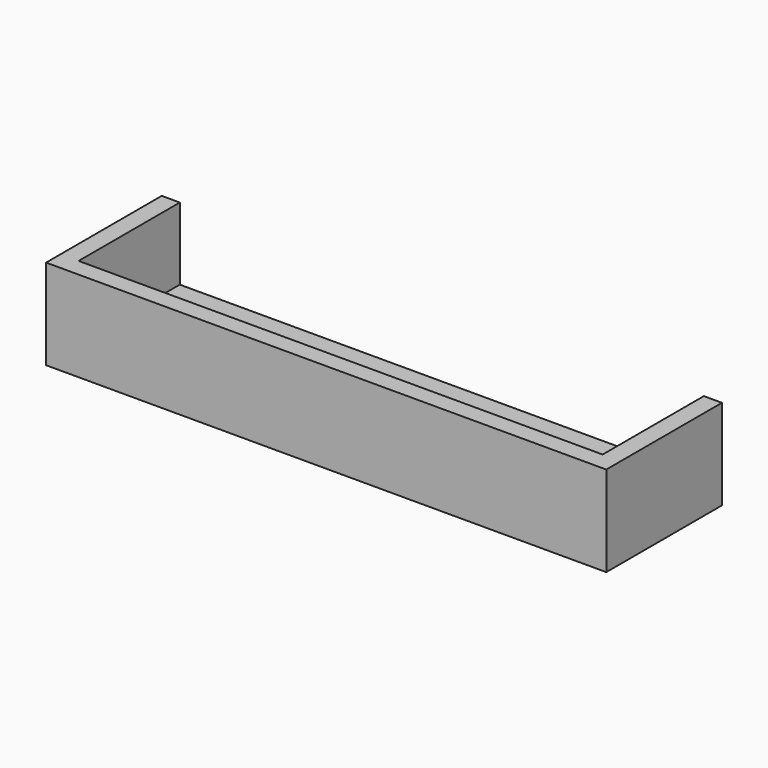
from build123d import *

# Parameters (mm, degrees)
F1_DEPTH = 400
F2_W     = 3100
F2_H     = 800
F3_DEPTH = 100


with BuildPart() as f1:
    # F0 (on Top) → F1 (new body)
    with BuildSketch(Plane.XY):
        Polygon((100, 0), (0, 0), (0, -800), (3100, -800), (3100, 0), (3000, 0), (3000, -700), (100, -700), align=None)
    extrude(amount=-F1_DEPTH)

    # F2 (on face) → F3 (join)
    with BuildSketch(Plane(origin=(0, 0, -400), x_dir=(1, 0, 0), z_dir=(0, 0, -1))):
        with Locations((1550, 400)):
            Rectangle(F2_W, F2_H)
    extrude(amount=F3_DEPTH)


solid = f1.part
